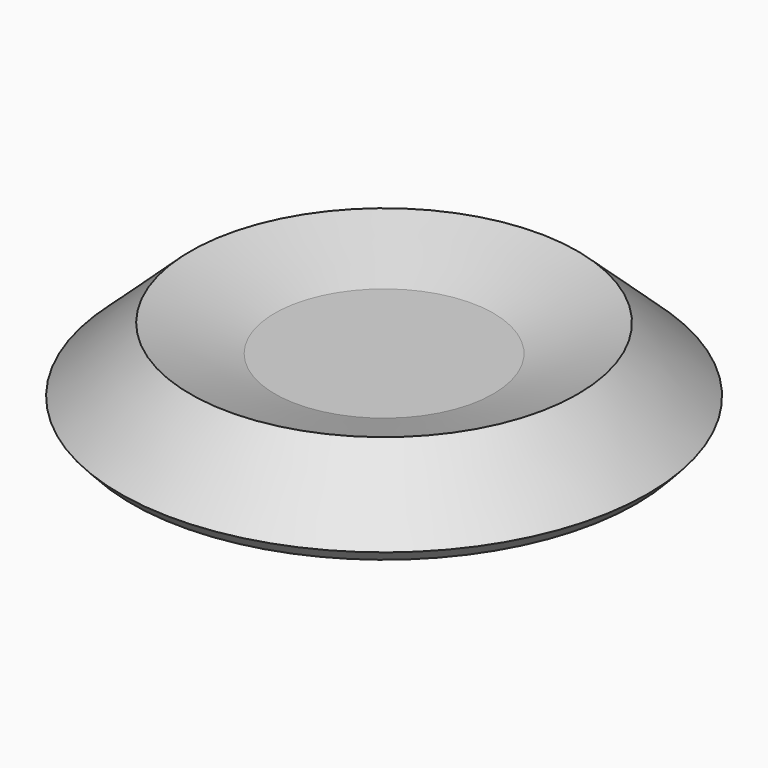
from build123d import *

# Parameters (mm, degrees)
F0_W = 77.60369
F0_H = 26.770264


with BuildPart() as f1:
    # F0 (on Front) → F1 (revolve)
    with BuildSketch(Plane.XZ):
        Polygon((137.460798, 19.250525), (77.60369, 0), (77.60369, -26.770264), (137.460798, 0), (179.176461, -35.683689), (187.391847, -26.770264), align=None)
        with Locations((38.801845, -13.385132)):
            Rectangle(F0_W, F0_H)
    revolve(axis=Axis((0, 0, -13.385132), (0, 0, -1)))


solid = f1.part
